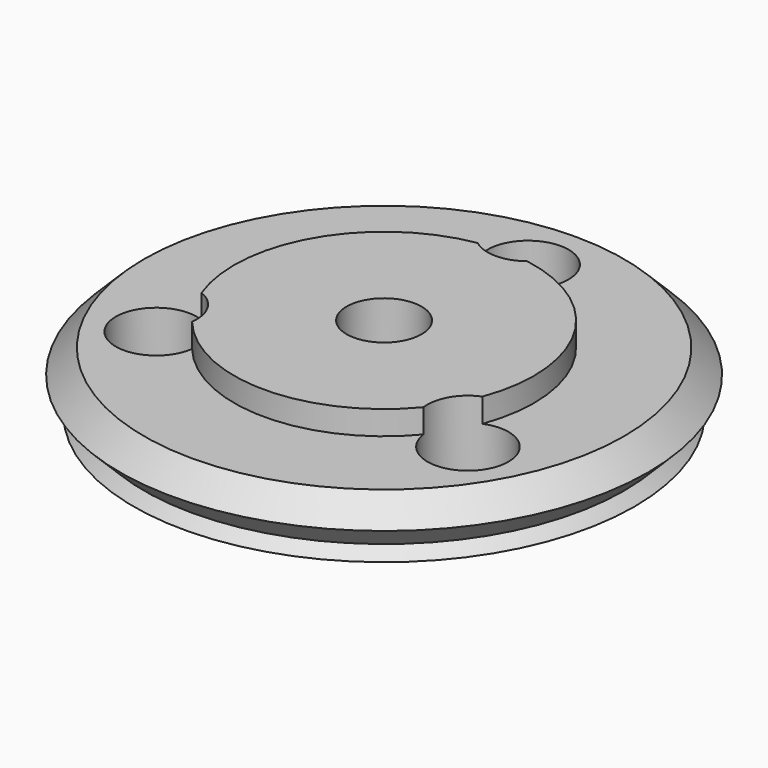
from build123d import *

# Parameters (mm, degrees)
CYLINDER002_R     = 20
CYLINDER002_DEPTH = 20
CYLINDER001_R     = 1.35
CYLINDER001_DEPTH = 10
ARRAY001_COUNT    = 3
CYLINDER_R        = 4.1
CYLINDER_DEPTH    = 2.25
SKETCH002_W       = 5
SKETCH002_H       = 4.7
ARRAY_Z_COUNT     = 6
ARRAY_Z_PITCH     = 1.6


with BuildPart() as upperdomain:
    # Cylinder002 → Cylinder002 (new body)
    with BuildSketch(Plane.XY.offset(1.25)):
        Circle(CYLINDER002_R)
    extrude(amount=CYLINDER002_DEPTH)


with BuildPart() as obj1:
    # Cylinder001 → Cylinder001 (new body)
    with BuildSketch(Plane(origin=(0, 6, -4), x_dir=(1, 0, 0), z_dir=(0, 0, 1))):
        Circle(CYLINDER001_R)
    extrude(amount=CYLINDER001_DEPTH)

    # Array001: obj1 ×3 about axis
    array001_axis = Axis((0, 0, 0), (0, 0, 1))


with BuildPart() as obj1_1:
    add(obj1.part)
    for i in range(1, ARRAY001_COUNT):
        add(obj1.part.rotate(array001_axis, i * 360 / ARRAY001_COUNT))


with BuildPart() as lensfit:
    # Cylinder → Cylinder (new body)
    with BuildSketch(Plane.XY.offset(-1)):
        Circle(CYLINDER_R)
    extrude(amount=CYLINDER_DEPTH)


with BuildPart() as obj2:
    # Sketch002 → Revolution002 (revolve)
    with BuildSketch(Plane.XZ):
        with Locations((7.5, 0.85)):
            Rectangle(SKETCH002_W, SKETCH002_H)
    revolve(axis=Axis((0, 0, 0), (0, 0, 1)))


with BuildPart() as innergroovetool:
    # Sketch001 → Revolution001 (revolve)
    with BuildSketch(Plane.XZ):
        Polygon((4, 3.2), (4, 1.6), (8, 1.6), (8.8, 2.4), (8, 3.2), align=None)
    revolve(axis=Axis((0, 0, 0), (0, 0, 1)))

    # Array Z: InnerGrooveTool ×6


with BuildPart() as innergroovetool_1:
    add(innergroovetool.part)
    with Locations(*[(0, 0, -i * ARRAY_Z_PITCH) for i in range(1, ARRAY_Z_COUNT)]):
        add(innergroovetool.part)

    # Common: intersect obj2
    add(obj2.part, mode=Mode.INTERSECT)


with BuildPart() as lid:
    # Sketch → Revolution (revolve)
    with BuildSketch(Plane.XZ):
        Polygon((1.25, 4), (1.25, -1.5), (8, -1.5), (8, 3.2), (5, 3.2), (5, 4), align=None)
    revolve(axis=Axis((0, 0, 0), (0, 0, 1)))

    # Fusion001: union InnerGrooveTool
    add(innergroovetool_1.part)

    # Cut: cut LensFit
    add(lensfit.part, mode=Mode.SUBTRACT)

    # Cut001: cut obj1
    add(obj1_1.part, mode=Mode.SUBTRACT)

    # Common001: intersect UpperDomain
    add(upperdomain.part, mode=Mode.INTERSECT)


solid = lid.part
